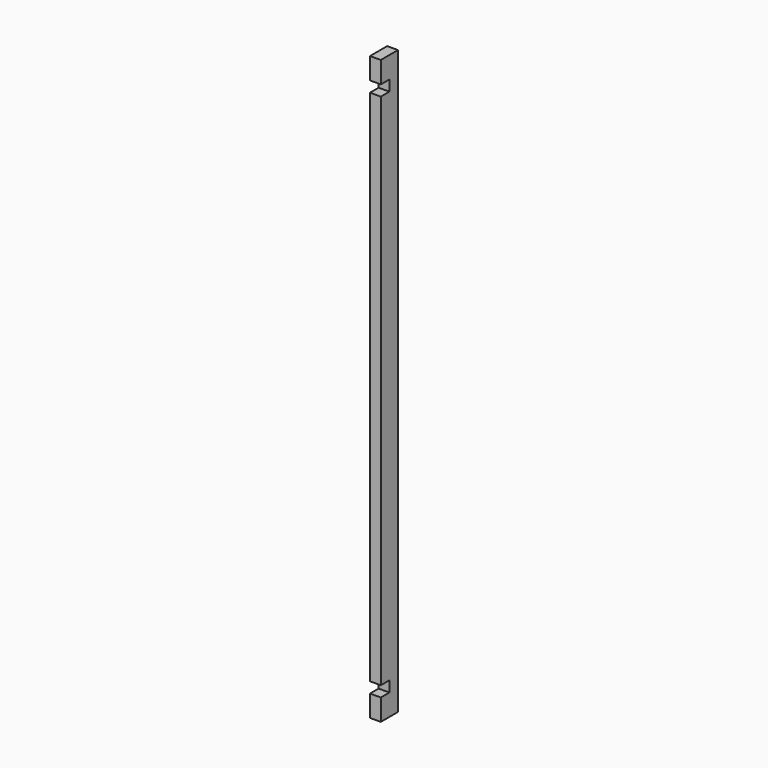
from build123d import *

# Parameters (mm, degrees)
F1_DEPTH = 3.75


with BuildPart() as f1:
    # F0 (on Right) → F1 (new body, symmetric)
    with BuildSketch(Plane.YZ):
        Polygon((7.5, -203.2), (7.5, 203.2), (-7.5, 203.2), (-7.5, 188.2), (0, 188.2), (0, 180.7), (-7.5, 180.7), (-7.5, -180.7), (0, -180.7), (0, -188.2), (-7.5, -188.2), (-7.5, -203.2), align=None)
    extrude(amount=F1_DEPTH, both=True)


solid = f1.part
